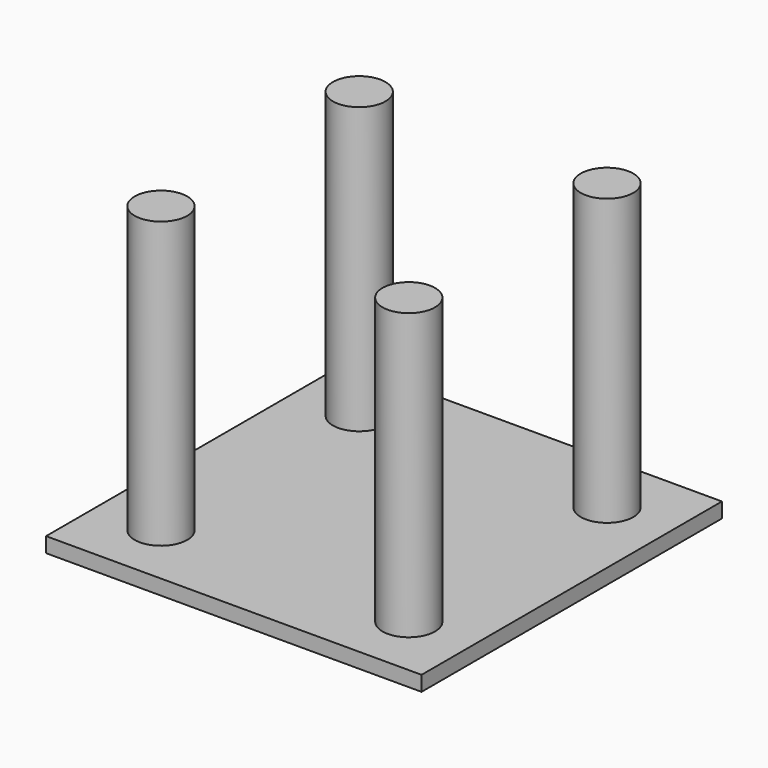
from build123d import *

# Parameters (mm, degrees)
F0_W     = 50
F0_H     = 50
F0_R     = 3.5
F1_DEPTH = 2
F2_DEPTH = 40


with BuildPart() as f1:
    # F0 (on Top) → F1 (new body)
    with BuildSketch(Plane.XY):
        Rectangle(F0_W, F0_H)
        with Locations((-16.5, -16.5)):
            Circle(F0_R, mode=Mode.SUBTRACT)
        with Locations((16.5, -16.5)):
            Circle(F0_R, mode=Mode.SUBTRACT)
        with Locations((-16.5, 16.5)):
            Circle(F0_R, mode=Mode.SUBTRACT)
        with Locations((16.5, 16.5)):
            Circle(F0_R, mode=Mode.SUBTRACT)
    extrude(amount=F1_DEPTH)

    # F0 (on Top) → F2 (join)
    with BuildSketch(Plane.XY):
        with Locations((-16.5, 16.5)):
            Circle(F0_R)
        with Locations((16.5, 16.5)):
            Circle(F0_R)
        with Locations((16.5, -16.5)):
            Circle(F0_R)
        with Locations((-16.5, -16.5)):
            Circle(F0_R)
    extrude(amount=F2_DEPTH)


solid = f1.part
